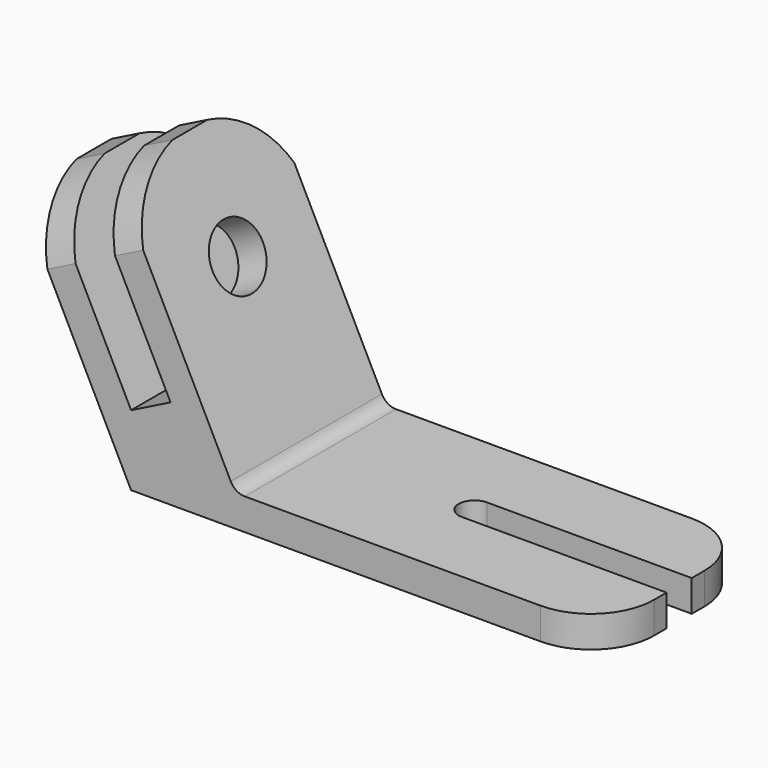
from build123d import *

# Parameters (mm, degrees)
F1_DEPTH = 60
F3_DEPTH = 25
F4_R     = 10
F5_DEPTH = 50.8
F7_DEPTH = 42.5
F8_R     = 20


with BuildPart() as f1:
    # F0 (on Front) → F1 (new body)
    with BuildSketch(Plane.XZ):
        with BuildLine():
            Line((94.505748464, -21.1170856844), (94.505748464, -11.1170856844))
            Line((94.505748464, -11.1170856844), (-19.3909259748, -11.1170856844))
            ThreePointArc((-19.3909259748, -11.1170856844), (-22.0195815354, -10.3703397262), (-23.8630619298, -8.3531536619))
            Line((-23.8630619298, -8.3531536619), (-60.860814682, 65.6423518426))
            Line((-60.860814682, 65.6423518426), (-69.805086592, 61.1702158876))
            Line((-69.805086592, 61.1702158876), (-42.972270862, 7.5045844276))
            Line((-42.972270862, 7.5045844276), (-55.494251536, 1.2435940906))
            Line((-55.494251536, 1.2435940906), (-82.327067266, 54.9092255506))
            Line((-82.327067266, 54.9092255506), (-91.271339176, 50.4370895956))
            Line((-91.271339176, 50.4370895956), (-55.494251536, -21.1170856844))
            Line((-55.494251536, -21.1170856844), (94.505748464, -21.1170856844))
        make_face()
    extrude(amount=F1_DEPTH)

    # F2 (on face) → F3 (cut)
    with BuildSketch(Plane.XY.offset(-11.1170856844)):
        with BuildLine():
            Line((94.505748464, -25), (29.505748464, -25))
            ThreePointArc((29.505748464, -25), (24.505748464, -30), (29.505748464, -35))
            Line((29.505748464, -35), (94.505748464, -35))
            Line((94.505748464, -35), (94.505748464, -25))
        make_face()
    extrude(amount=-F3_DEPTH, mode=Mode.SUBTRACT)

    # F4 (on face) → F5 (cut)
    with BuildSketch(Plane(origin=(-22.4317110086, 0, -11.2158555043), x_dir=(0, 1, 0), z_dir=(0.894427191, 0, 0.4472135955))):
        with Locations((-30, 51.9005979594)):
            Circle(F4_R)
    extrude(amount=-F5_DEPTH, mode=Mode.SUBTRACT)

    # F6 (on face) → F7 (cut)
    with BuildSketch(Plane(origin=(-22.4317110086, 0, -11.2158555043), x_dir=(0, 1, 0), z_dir=(0.894427191, 0, 0.4472135955))):
        with BuildLine():
            ThreePointArc((-23.0317006599, 85.9300881282), (-8.8437530091, 78.6280740539), (0, 65.346308328))
            Line((0, 65.346308328), (0, 85.9300881282))
            Line((0, 85.9300881282), (-23.0317006599, 85.9300881282))
        make_face()
        with BuildLine():
            ThreePointArc((-60, 65.346308328), (-51.1562469909, 78.6280740539), (-36.9682993401, 85.9300881282))
            Line((-36.9682993401, 85.9300881282), (-60, 85.9300881282))
            Line((-60, 85.9300881282), (-60, 65.346308328))
        make_face()
    extrude(amount=-F7_DEPTH, mode=Mode.SUBTRACT)

    # F8
    f8_edges = [f1.edges().sort_by_distance(p)[0] for p in [
        (94.505748, 0, -16.117086),
        (94.505748, -60, -16.117086),
    ]]
    fillet(f8_edges, radius=F8_R)


solid = f1.part
